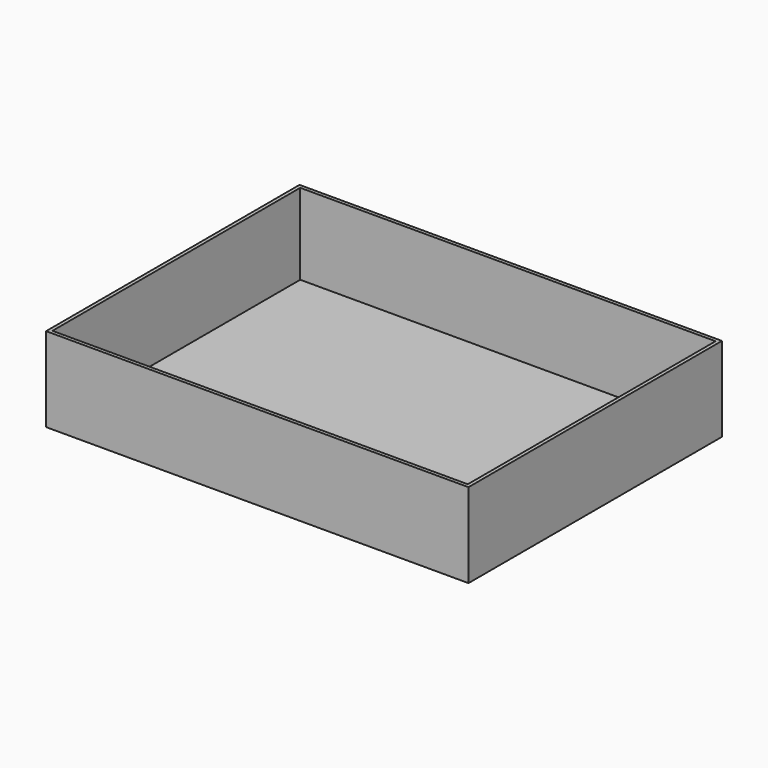
from build123d import *

# Parameters (mm, degrees)
F0_W     = 600
F0_H     = 450
F0_W_2   = 590
F0_H_2   = 440
F1_DEPTH = 120
F2_W     = 600
F2_H     = 450
F3_DEPTH = 5


with BuildPart() as f1:
    # F0 (on Top) → F1 (new body)
    with BuildSketch(Plane.XY):
        with Locations((262.628782, 207.631281)):
            Rectangle(F0_W, F0_H)
        with Locations((262.628782, 207.631281)):
            Rectangle(F0_W_2, F0_H_2, mode=Mode.SUBTRACT)
    extrude(amount=F1_DEPTH)

    # F2 (on face) → F3 (join)
    with BuildSketch(Plane(origin=(0, 0, 0), x_dir=(1, 0, 0), z_dir=(0, 0, -1))):
        with Locations((262.628782, -207.631281)):
            Rectangle(F2_W, F2_H)
    extrude(amount=-F3_DEPTH)


solid = f1.part
